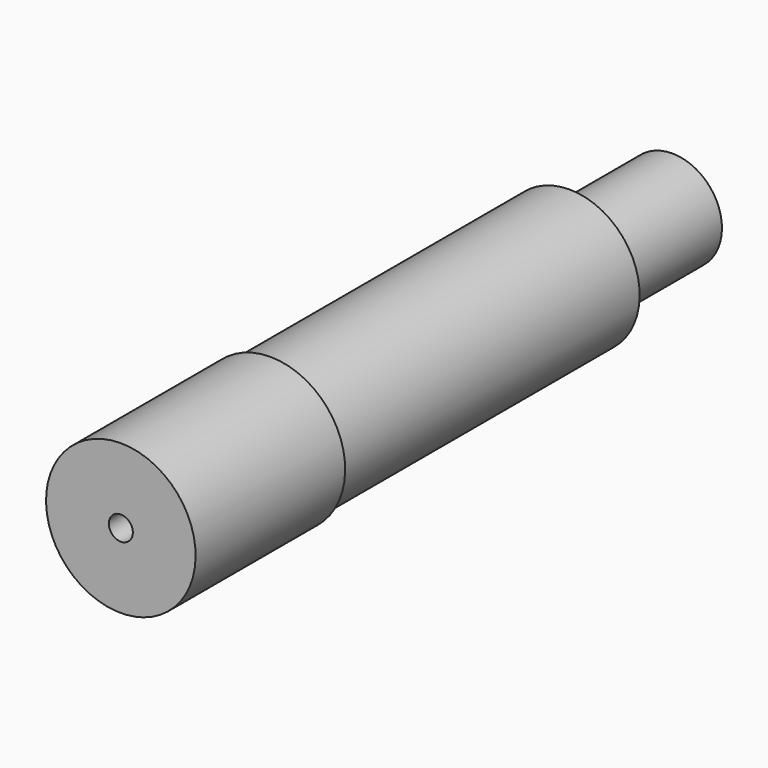
from build123d import *

# Parameters (mm, degrees)
F3_D     = 6.5278
F3_DEPTH = 19.05
F3_TIP   = 1.9611489744


with BuildPart() as f1:
    # F0 (on Right) → F1 (revolve)
    with BuildSketch(Plane.YZ):
        Polygon((-82.0368663356, 5.5372), (-82.0368663356, 0), (70.3631336644, 0), (105.2881336644, 0), (105.2881336644, 13.4747), (70.3631336644, 13.4747), (70.3631336644, 19.05), (31.75, 19.05), (0, 19.05), (-30.347602762, 19.05), (-31.2368663356, 20.32), (-82.0368663356, 20.32), align=None)
    revolve(axis=Axis((0, -5.8368663356, 0), (0, 1, 0)))

    # F3
    with Locations(Plane.XZ.offset(82.0368663356)):
        with Locations((0, 0)):
            Hole(F3_D / 2, depth=F3_DEPTH)
            with Locations((0, 0, -(F3_DEPTH + F3_TIP / 2))):  # 118° drill point
                Cone(0, F3_D / 2, F3_TIP, mode=Mode.SUBTRACT)


solid = f1.part
